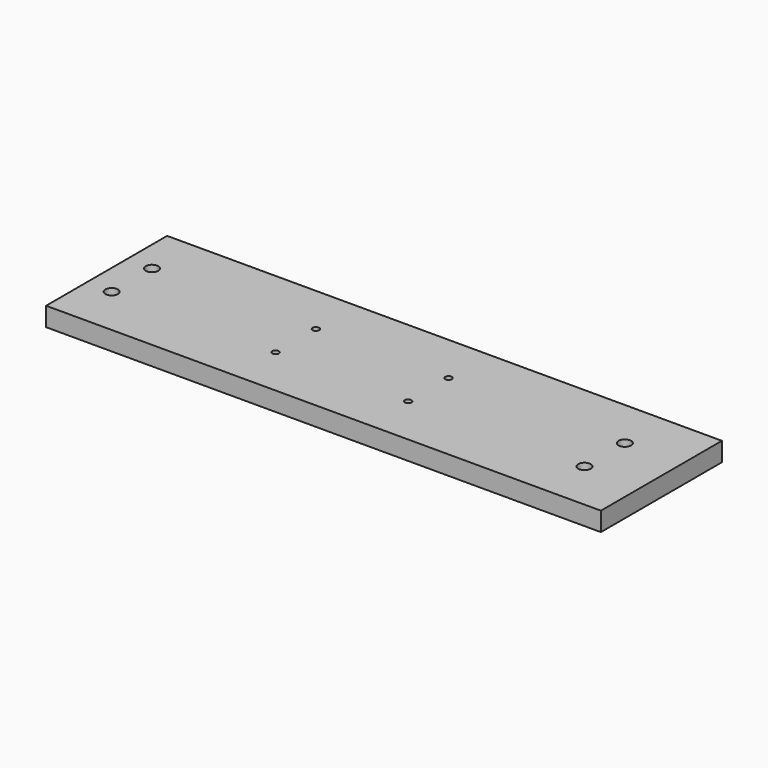
from build123d import *

# Parameters (mm, degrees)
F0_W     = 152.4
F0_H     = 38.1
F0_R     = 3.175
F0_R_2   = 1.651
F1_DEPTH = 9.525


with BuildPart() as f1:
    # F0 (on Top) → F1 (new body)
    with BuildSketch(Plane.XY):
        with Locations((-76.2, 19.05)):
            Rectangle(F0_W, F0_H)
        with Locations((-139.7, 12.7)):
            Circle(F0_R, mode=Mode.SUBTRACT)
        with Locations((-57.15, 12.7)):
            Circle(F0_R_2, mode=Mode.SUBTRACT)
        Polygon((127, 38.1), (0, 38.1), (0, 0), (-152.4, 0), (-152.4, -38.1), (127, -38.1), align=None)
        with Locations((-139.7, -12.7)):
            Circle(F0_R, mode=Mode.SUBTRACT)
        with Locations((-57.15, -12.7)):
            Circle(F0_R_2, mode=Mode.SUBTRACT)
        with Locations((9.652, -12.7)):
            Circle(F0_R_2, mode=Mode.SUBTRACT)
        with Locations((98.425, -12.7)):
            Circle(F0_R, mode=Mode.SUBTRACT)
        with Locations((9.652, 12.7)):
            Circle(F0_R_2, mode=Mode.SUBTRACT)
        with Locations((98.425, 12.7)):
            Circle(F0_R, mode=Mode.SUBTRACT)
    extrude(amount=F1_DEPTH)


solid = f1.part
